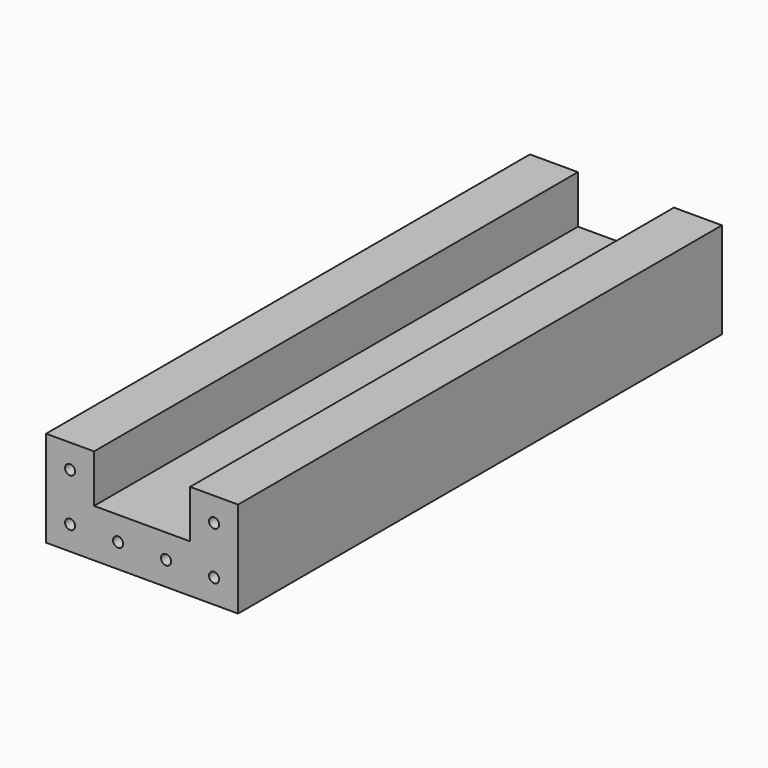
from build123d import *

# Parameters (mm, degrees)
F0_R     = 2.1
F1_DEPTH = 252


with BuildPart() as f1:
    # F0 (on Front) → F1 (new body)
    with BuildSketch(Plane.XZ):
        Polygon((-20, 40), (-40, 40), (-40, 0), (40, 0), (40, 40), (20, 40), (20, 20), (-20, 20), align=None)
        with Locations((-30, 10)):
            Circle(F0_R, mode=Mode.SUBTRACT)
        with Locations((-10, 10)):
            Circle(F0_R, mode=Mode.SUBTRACT)
        with Locations((10, 10)):
            Circle(F0_R, mode=Mode.SUBTRACT)
        with Locations((30, 10)):
            Circle(F0_R, mode=Mode.SUBTRACT)
        with Locations((-30, 30)):
            Circle(F0_R, mode=Mode.SUBTRACT)
        with Locations((30, 30)):
            Circle(F0_R, mode=Mode.SUBTRACT)
    extrude(amount=-F1_DEPTH)


solid = f1.part
